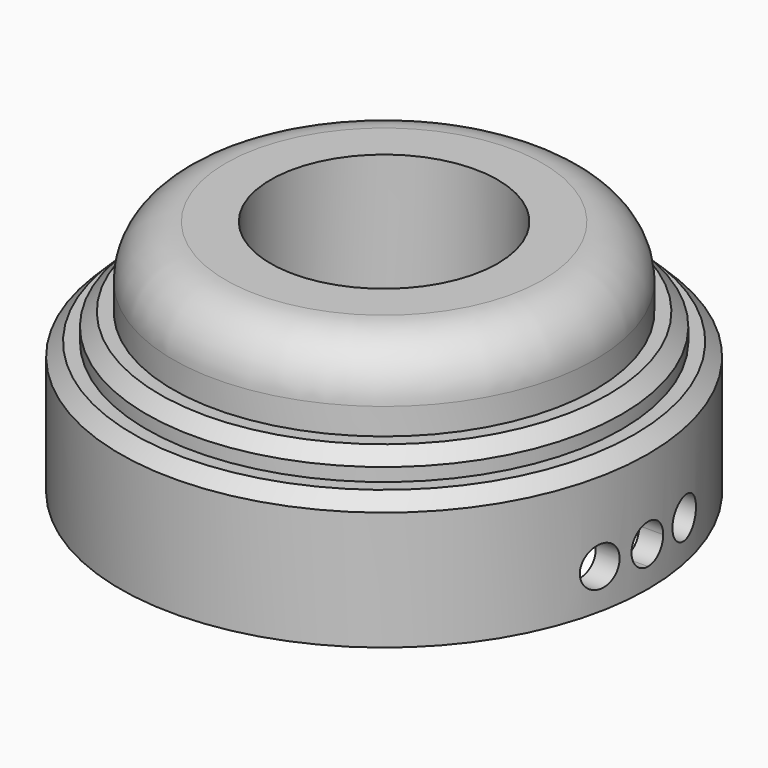
from build123d import *

# Parameters (mm, degrees)
F0_R          = 10
F0_R_2        = 9.1
F1_DEPTH      = 4
F2_R          = 0.75
F3_DEPTH      = 25
F3_DEPTH_BACK = 25
F4_R          = 10
F4_R_2        = 9.1
F4_R_3        = 9
F4_R_4        = 8
F4_R_5        = 4.3
F5_DEPTH      = 1
F6_DEPTH      = 2
F7_DEPTH      = 5
F8_SIZE       = 0.5
F9_R          = 2


with BuildPart() as f1:
    # F0 (on Top) → F1 (new body)
    with BuildSketch(Plane.XY):
        Circle(F0_R)
        Circle(F0_R_2, mode=Mode.SUBTRACT)
    extrude(amount=F1_DEPTH)

    # F2 (on Right) → F3 (cut, two sides)
    with BuildSketch(Plane.YZ) as f3_sk:
        with BuildLine():
            ThreePointArc((-0.75, 1.5), (-0.5303300859, 0.9696699141), (0, 0.75))
            Line((0, 0.75), (0, 1.5))
            Line((0, 1.5), (-0.75, 1.5))
        make_face()
        with BuildLine():
            Line((0, 1.5), (0, 0.75))
            ThreePointArc((0, 0.75), (0.5303300859, 0.9696699141), (0.75, 1.5))
            Line((0.75, 1.5), (0, 1.5))
        make_face()
        with BuildLine():
            Line((-0.75, 1.5), (0, 1.5))
            Line((0, 1.5), (0.75, 1.5))
            ThreePointArc((0.75, 1.5), (0, 2.25), (-0.75, 1.5))
        make_face()
        with Locations((-2, 1.5)):
            Circle(F2_R)
        with BuildLine():
            ThreePointArc((2.75, 1.5), (2, 2.25), (1.25, 1.5))
            ThreePointArc((1.25, 1.5), (2, 0.75), (2.75, 1.5))
        make_face()
    extrude(amount=-F3_DEPTH, mode=Mode.SUBTRACT)
    extrude(f3_sk.sketch, amount=F3_DEPTH_BACK, mode=Mode.SUBTRACT)

    # F4 (on face) → F5 (join)
    with BuildSketch(Plane.XY.offset(4)):
        Circle(F4_R)
        Circle(F4_R_2, mode=Mode.SUBTRACT)
        Circle(F4_R_2)
        Circle(F4_R_3, mode=Mode.SUBTRACT)
        Circle(F4_R_3)
        Circle(F4_R_4, mode=Mode.SUBTRACT)
        Circle(F4_R_4)
        Circle(F4_R_5, mode=Mode.SUBTRACT)
    extrude(amount=F5_DEPTH)

    # F4 (on face) → F6 (join)
    with BuildSketch(Plane.XY.offset(4)):
        Circle(F4_R_3)
        Circle(F4_R_4, mode=Mode.SUBTRACT)
        Circle(F4_R_4)
        Circle(F4_R_5, mode=Mode.SUBTRACT)
    extrude(amount=F6_DEPTH)

    # F4 (on face) → F7 (join)
    with BuildSketch(Plane.XY.offset(4)):
        Circle(F4_R_4)
        Circle(F4_R_5, mode=Mode.SUBTRACT)
    extrude(amount=F7_DEPTH)

    # F8
    f8_edges = [f1.edges().sort_by_distance(p)[0] for p in [
        (-10, 0, 5),
        (-9, 0, 6),
    ]]
    chamfer(f8_edges, length=F8_SIZE)

    # F9
    f9_edges = [f1.edges().sort_by_distance(p)[0] for p in [
        (-8, 0, 9),
    ]]
    fillet(f9_edges, radius=F9_R)


solid = f1.part
